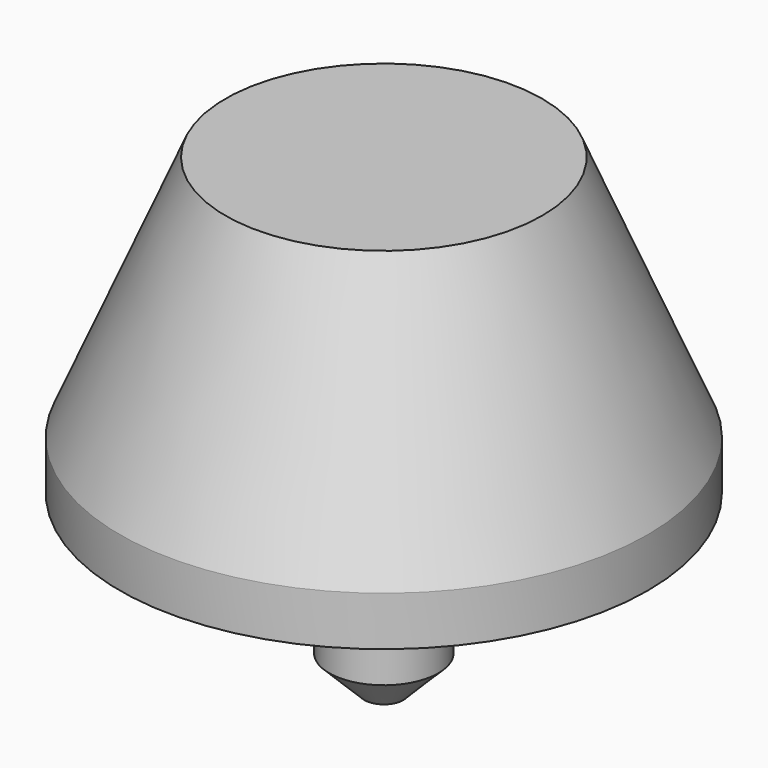
from build123d import *

# Parameters (mm, degrees)
SKETCH_R         = 1.55
PAD_DEPTH        = 5
SKETCH001_R      = 7.5
PAD001_DEPTH     = 8.4
CHAMFER_SIZE     = 1
CHAMFER001_SIZE2 = 3
CHAMFER001_SIZE  = 7


with BuildPart() as part:
    # Sketch → Pad (new body)
    with BuildSketch(Plane.XY):
        Circle(SKETCH_R)
    extrude(amount=-PAD_DEPTH)

    # Sketch001 → Pad001 (join)
    with BuildSketch(Plane.XY):
        Circle(SKETCH001_R)
    extrude(amount=PAD001_DEPTH)

    # Chamfer
    chamfer_edges = [part.edges().sort_by_distance(p)[0] for p in [
        (-1.55, 0, -5),
    ]]
    chamfer(chamfer_edges, length=CHAMFER_SIZE)

    # Chamfer001
    chamfer001_edges = [part.edges().sort_by_distance(p)[0] for p in [
        (-7.5, 0, 8.4),
    ]]
    chamfer001_side = part.faces().sort_by_distance((-7.5, 0, 4.2))[0]
    chamfer(chamfer001_edges, length=CHAMFER001_SIZE, length2=CHAMFER001_SIZE2, reference=chamfer001_side)


solid = part.part
